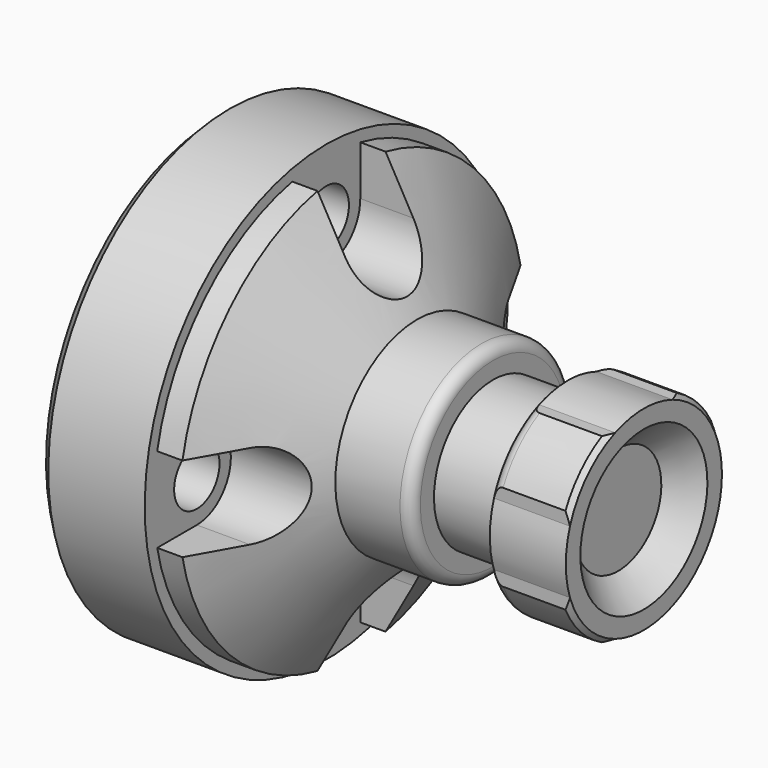
from build123d import *

# Parameters (mm, degrees)
F2_R      = 34.3509807826
F3_DEPTH  = 8.763
F6_R      = 3.175
F7_DEPTH  = 35.56
F8_R      = 3.175
F9_DEPTH  = 47.626
F14_R     = 3.175
F16_DEPTH = 4.826


with BuildPart() as f1:
    # F0 (on Front) → F1 (revolve)
    with BuildSketch(Plane.XZ):
        with BuildLine():
            Line((-47.625, 0), (0, 0))
            Line((0, 0), (0, 10.922))
            Line((0, 10.922), (-0.508, 11.43))
            Line((-0.508, 11.43), (-7.493, 11.43))
            ThreePointArc((-7.493, 11.43), (-8.3910256121, 11.0580256121), (-8.763, 10.16))
            Line((-8.763, 10.16), (-8.763, 8.255))
            Line((-8.763, 8.255), (-16.891, 8.255))
            Line((-16.891, 8.255), (-16.891, 10.16))
            ThreePointArc((-16.891, 10.16), (-17.2629743879, 11.0580256121), (-18.161, 11.43))
            Line((-18.161, 11.43), (-25.4, 11.43))
            Line((-25.4, 11.43), (-32.7323484187, 24.13))
            Line((-32.7323484187, 24.13), (-35.56, 24.13))
            Line((-35.56, 24.13), (-35.56, 25.4))
            Line((-35.56, 25.4), (-46.355, 25.4))
            Line((-46.355, 25.4), (-47.625, 24.13))
            Line((-47.625, 24.13), (-47.625, 0))
        make_face()
    revolve(axis=Axis((-23.8125, 0, 0), (1, 0, 0)))

    # F2 (on face) → F3 (cut)
    with BuildSketch(Plane.YZ):
        Circle(F2_R)
        with BuildLine():
            Line((9.9813107994, 10.16), (9.9813107994, 4.4343566304))
            ThreePointArc((9.9813107994, 4.4343566304), (10.684239808, 2.2665179735), (10.922, 0))
            ThreePointArc((10.922, 0), (10.684239808, -2.2665179735), (9.9813107994, -4.4343566304))
            Line((9.9813107994, -4.4343566304), (9.9813107994, -10.16))
            Line((9.9813107994, -10.16), (4.0080523949, -10.16))
            ThreePointArc((4.0080523949, -10.16), (0, -10.922), (-4.0080523949, -10.16))
            Line((-4.0080523949, -10.16), (-10.3386892006, -10.16))
            Line((-10.3386892006, -10.16), (-10.3386892006, -3.5215890751))
            ThreePointArc((-10.3386892006, -3.5215890751), (-10.922, 0), (-10.3386892006, 3.5215890751))
            Line((-10.3386892006, 3.5215890751), (-10.3386892006, 10.16))
            Line((-10.3386892006, 10.16), (-4.0080523949, 10.16))
            ThreePointArc((-4.0080523949, 10.16), (0, 10.922), (4.0080523949, 10.16))
            Line((4.0080523949, 10.16), (9.9813107994, 10.16))
        make_face(mode=Mode.SUBTRACT)
    extrude(amount=-F3_DEPTH, mode=Mode.SUBTRACT)

    # F4 (on Front) → F5 (revolve, cut)
    with BuildSketch(Plane.XZ):
        Polygon((-2.8706528246, 0), (0, 0), (0, 8.89), (-2.8706528246, 6.0325), align=None)
    revolve(axis=Axis((-1.4353264123, 0, 0), (-1, 0, 0)), mode=Mode.SUBTRACT)

    # F6 (on Right) → F7 (cut)
    with BuildSketch(Plane.YZ):
        with BuildLine():
            Line((-4.7625, 25.687713176), (-4.7625, 18.1102))
            ThreePointArc((-4.7625, 18.1102), (0, 13.3477), (4.7625, 18.1102))
            Line((4.7625, 18.1102), (4.7625, 25.687713176))
            Line((4.7625, 25.687713176), (-4.7625, 25.687713176))
        make_face()
        with Locations((0, 18.1102)):
            Circle(F6_R, mode=Mode.SUBTRACT)
        with BuildLine():
            Line((-25.687713176, -4.7625), (-18.1102, -4.7625))
            ThreePointArc((-18.1102, -4.7625), (-13.3477, 0), (-18.1102, 4.7625))
            Line((-18.1102, 4.7625), (-25.687713176, 4.7625))
            Line((-25.687713176, 4.7625), (-25.687713176, -4.7625))
        make_face()
        with Locations((-18.1102, 0)):
            Circle(F6_R, mode=Mode.SUBTRACT)
        with BuildLine():
            Line((4.7625, -25.687713176), (4.7625, -18.1102))
            ThreePointArc((4.7625, -18.1102), (0, -13.3477), (-4.7625, -18.1102))
            Line((-4.7625, -18.1102), (-4.7625, -25.687713176))
            Line((-4.7625, -25.687713176), (4.7625, -25.687713176))
        make_face()
        with Locations((0, -18.1102)):
            Circle(F6_R, mode=Mode.SUBTRACT)
        with BuildLine():
            Line((25.687713176, 4.7625), (18.1102, 4.7625))
            ThreePointArc((18.1102, 4.7625), (13.3477, 0), (18.1102, -4.7625))
            Line((18.1102, -4.7625), (25.687713176, -4.7625))
            Line((25.687713176, -4.7625), (25.687713176, 4.7625))
        make_face()
        with Locations((18.1102, 0)):
            Circle(F6_R, mode=Mode.SUBTRACT)
    extrude(amount=-F7_DEPTH, mode=Mode.SUBTRACT)

    # F8 (on Right) → F9 (cut, through all)
    with BuildSketch(Plane.YZ):
        with Locations((0, 18.1102)):
            Circle(F8_R)
        with Locations((18.1102, 0)):
            Circle(F8_R)
        with Locations((0, -18.1102)):
            Circle(F8_R)
        with Locations((-18.1102, 0)):
            Circle(F8_R)
    extrude(amount=-F9_DEPTH, mode=Mode.SUBTRACT)

    # F10 (on Front) → F11 (revolve, cut)
    with BuildSketch(Plane.XZ):
        Polygon((-47.6167279945, 5.207), (-47.6167279945, 0), (-14.3173279945, 0), (-14.3173279945, 3.302), (-17.6168847829, 5.207), align=None)
    revolve(axis=Axis((-30.9670279945, 0, 0), (1, 0, 0)), mode=Mode.SUBTRACT)

    # F12 (on Front) → F13 (revolve, cut)
    with BuildSketch(Plane.XZ):
        Polygon((-47.8087775409, 0), (-38.1567775409, 0), (-38.1567775409, 9.906), (-42.9827775409, 16.51), (-47.8087775409, 16.51), align=None)
    revolve(axis=Axis((-42.9827775409, 0, 0), (-1, 0, 0)), mode=Mode.SUBTRACT)

    # F14
    f14_edges = [f1.edges().sort_by_distance(p)[0] for p in [
        (-38.156778, 0, -5.207),
    ]]
    fillet(f14_edges, radius=F14_R)

    # F15 (on face) → F16 (cut)
    with BuildSketch(Plane(origin=(-47.625, 0, 0), x_dir=(0, -1, 0), z_dir=(-1, 0, 0))):
        with BuildLine():
            ThreePointArc((4.5584972307, 15.8682136045), (4.9479069278, 16.9592799185), (5.08, 18.1102))
            ThreePointArc((5.08, 18.1102), (-1.1509200815, 23.0581069278), (-4.5584972307, 15.8682136045))
            ThreePointArc((-4.5584972307, 15.8682136045), (-3.5908473121, 16.1147732091), (-2.6100615471, 16.3023826087))
            ThreePointArc((-2.6100615471, 16.3023826087), (-3.0304760692, 17.1631837414), (-3.175, 18.1102))
            ThreePointArc((-3.175, 18.1102), (0.9470162586, 21.1406760692), (2.6100615471, 16.3023826087))
            ThreePointArc((2.6100615471, 16.3023826087), (3.5908473121, 16.1147732091), (4.5584972307, 15.8682136045))
        make_face()
        with BuildLine():
            ThreePointArc((-16.3023826087, 2.6100615471), (-16.1147732091, 3.5908473121), (-15.8682136045, 4.5584972307))
            ThreePointArc((-15.8682136045, 4.5584972307), (-23.1902, 0), (-15.8682136045, -4.5584972307))
            ThreePointArc((-15.8682136045, -4.5584972307), (-16.1147732091, -3.5908473121), (-16.3023826087, -2.6100615471))
            ThreePointArc((-16.3023826087, -2.6100615471), (-19.5834285604, -2.8125117971), (-21.2852, 0))
            ThreePointArc((-21.2852, 0), (-19.5834285604, 2.8125117971), (-16.3023826087, 2.6100615471))
        make_face()
        with BuildLine():
            ThreePointArc((23.1902, 0), (20.7950751471, 4.3125219356), (15.8682136045, 4.5584972307))
            ThreePointArc((15.8682136045, 4.5584972307), (16.1147732091, 3.5908473121), (16.3023826087, 2.6100615471))
            ThreePointArc((16.3023826087, 2.6100615471), (21.2852, 0), (16.3023826087, -2.6100615471))
            ThreePointArc((16.3023826087, -2.6100615471), (16.1147732091, -3.5908473121), (15.8682136045, -4.5584972307))
            ThreePointArc((15.8682136045, -4.5584972307), (20.7950751471, -4.3125219356), (23.1902, 0))
        make_face()
        with BuildLine():
            ThreePointArc((-2.6100615471, -16.3023826087), (-3.5908473121, -16.1147732091), (-4.5584972307, -15.8682136045))
            ThreePointArc((-4.5584972307, -15.8682136045), (-1.1509200815, -23.0581069278), (5.08, -18.1102))
            ThreePointArc((5.08, -18.1102), (4.9479069278, -16.9592799185), (4.5584972307, -15.8682136045))
            ThreePointArc((4.5584972307, -15.8682136045), (3.5908473121, -16.1147732091), (2.6100615471, -16.3023826087))
            ThreePointArc((2.6100615471, -16.3023826087), (0.9470162586, -21.1406760692), (-3.175, -18.1102))
            ThreePointArc((-3.175, -18.1102), (-3.0304760692, -17.1631837414), (-2.6100615471, -16.3023826087))
        make_face()
    extrude(amount=-F16_DEPTH, mode=Mode.SUBTRACT)


solid = f1.part
